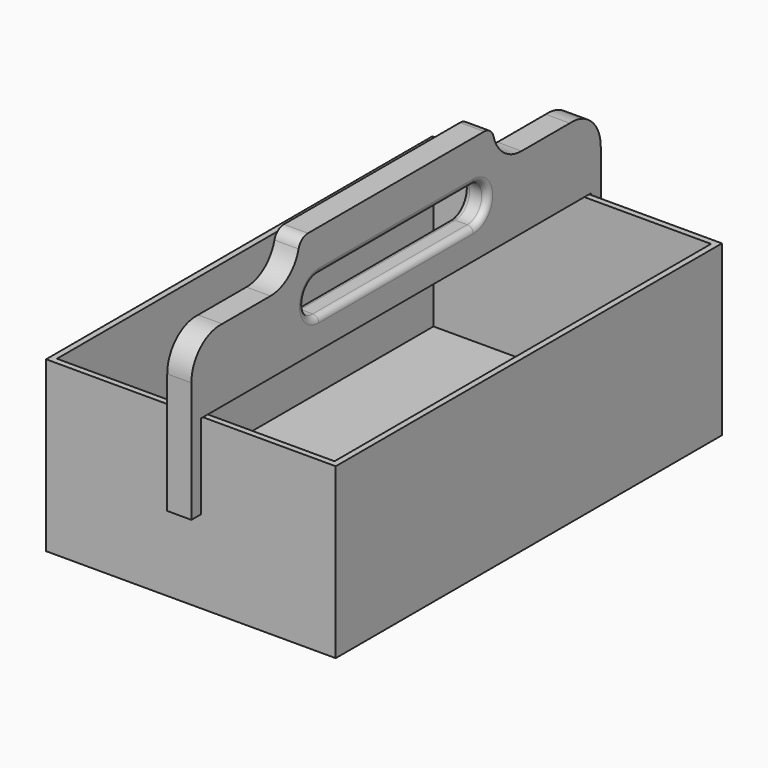
from build123d import *

# Parameters (mm, degrees)
F0_W     = 120
F0_H     = 70
F1_DEPTH = 100
F2_T     = -2.5
F4_DEPTH = 5
F5_R     = 2.5


with BuildPart() as f1:
    # F0 (on Front) → F1 (new body, symmetric)
    with BuildSketch(Plane.XZ):
        Rectangle(F0_W, F0_H)
    extrude(amount=F1_DEPTH, both=True)

    # F2
    f2_openings = [f1.faces().sort_by_distance(p)[0] for p in [
        (0, 0, 35),
    ]]
    offset(amount=F2_T, openings=f2_openings)

    # F3 (on Right) → F4 (join, symmetric)
    with BuildSketch(Plane.YZ):
        with BuildLine():
            Line((0, 35), (101, 35))
            Line((101, 35), (101, 0))
            Line((101, 0), (106, 0))
            Line((106, 0), (106, 50))
            ThreePointArc((106, 50), (101.259154, 60.976431), (90, 65))
            Line((90, 65), (65, 65))
            ThreePointArc((65, 65), (55.814413, 68.141459), (50.476312, 76.25))
            ThreePointArc((50.476312, 76.25), (48.696945, 78.952847), (45.635083, 80))
            Line((45.635083, 80), (0, 80))
            Line((0, 80), (-45.635083, 80))
            ThreePointArc((-45.635083, 80), (-48.696945, 78.952847), (-50.476312, 76.25))
            ThreePointArc((-50.476312, 76.25), (-55.814413, 68.141459), (-65, 65))
            Line((-65, 65), (-90, 65))
            ThreePointArc((-90, 65), (-101.259154, 60.976431), (-106, 50))
            Line((-106, 50), (-106, 0))
            Line((-106, 0), (-101, 0))
            Line((-101, 0), (-101, 35))
            Line((-101, 35), (-100, 35))
            Line((-100, 35), (0, 35))
        make_face()
        with BuildLine():
            Line((40, 47.5), (0, 47.5))
            Line((0, 47.5), (-40, 47.5))
            ThreePointArc((-40, 47.5), (-47.5, 55), (-40, 62.5))
            Line((-40, 62.5), (0, 62.5))
            Line((0, 62.5), (40, 62.5))
            ThreePointArc((40, 62.5), (47.5, 55), (40, 47.5))
        make_face(mode=Mode.SUBTRACT)
    extrude(amount=F4_DEPTH, both=True)

    # F5
    f5_edges = [f1.edges().sort_by_distance(p)[0] for p in [
        (5, 0, 47.5),
        (-5, 0, 47.5),
    ]]
    fillet(f5_edges, radius=F5_R)


solid = f1.part
